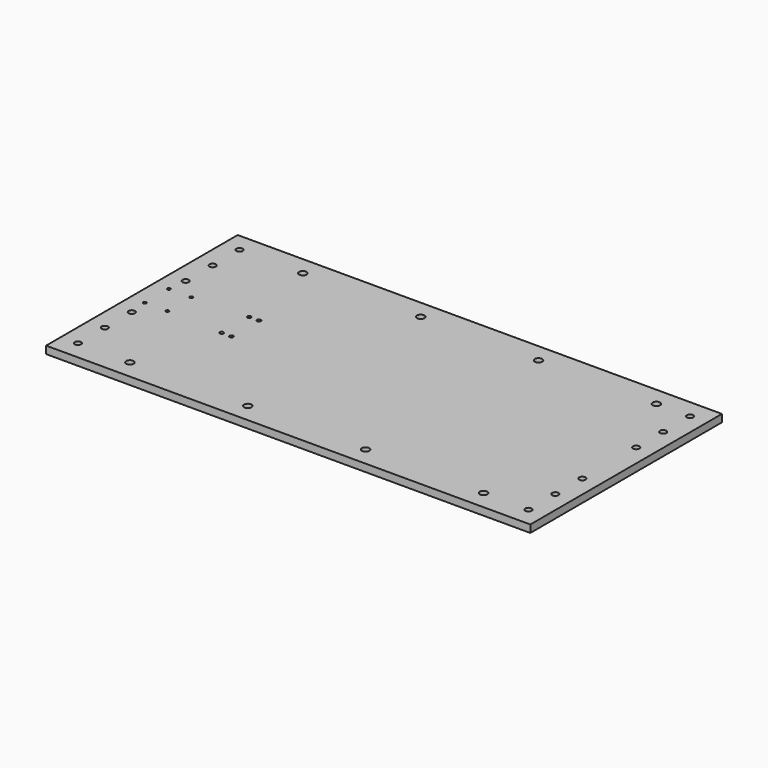
from build123d import *

# Parameters (mm, degrees)
F0_W     = 647
F0_H     = 320
F1_DEPTH = 10
F2_D     = 10
F3_D     = 5
F4_D     = 8.5
F6_D     = 4.2
F8_D     = 8.5


with BuildPart() as f1:
    # F0 (on Top) → F1 (new body)
    with BuildSketch(Plane.XY):
        with Locations((323.5, 160)):
            Rectangle(F0_W, F0_H)
    extrude(amount=F1_DEPTH)

    # F2 (through all)
    with Locations(Plane(origin=(0, 0, 0), x_dir=(1, 0, 0), z_dir=(0, 0, -1))):
        with Locations((92, -25), (249.5, -25), (407, -25), (564.5, -25), (107, -295), (264.5, -295), (422, -295), (579.5, -295)):
            Hole(F2_D / 2)

    # F3 (through all)
    with Locations(Plane(origin=(0, 0, 0), x_dir=(1, 0, 0), z_dir=(0, 0, -1))):
        with Locations((138, -183), (125, -183), (125, -137), (138, -137)):
            Hole(F3_D / 2)

    # F4 (through all)
    with Locations(Plane(origin=(0, 0, 0), x_dir=(1, 0, 0), z_dir=(0, 0, -1))):
        with Locations((22.5, -250), (22.5, -205), (22.5, -115), (22.5, -70), (22.5, -295), (22.5, -25)):
            Hole(F4_D / 2)

    # F6 (through all)
    with Locations(Plane.XY.offset(10)):
        with Locations((20, 180), (50, 180), (50, 140), (20, 140)):
            Hole(F6_D / 2)

    # F8 (through all)
    with Locations(Plane.XY.offset(10)):
        with Locations((624.5, 295), (624.5, 250), (624.5, 205), (624.5, 115), (624.5, 70), (624.5, 25)):
            Hole(F8_D / 2)


solid = f1.part
